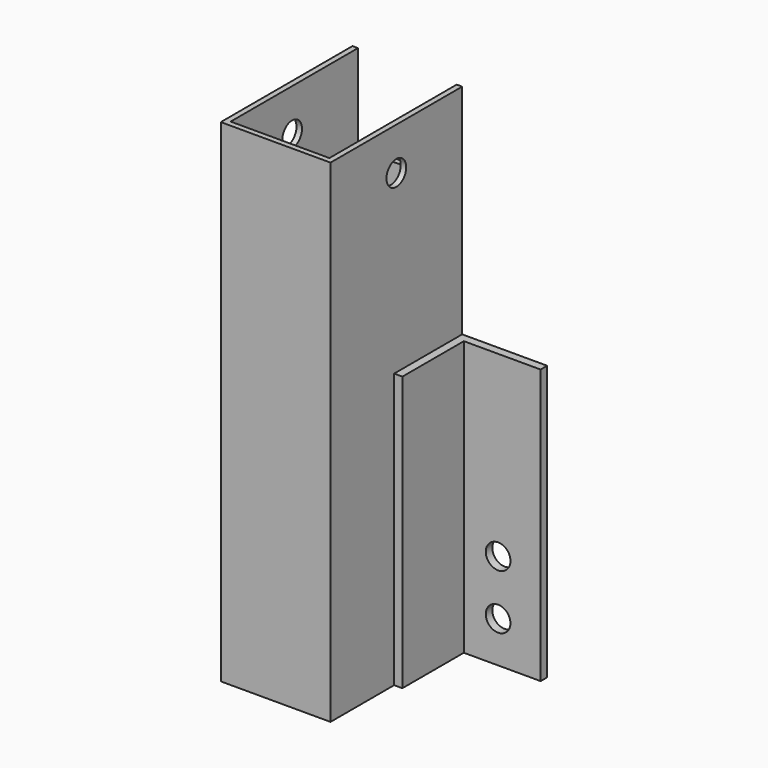
from build123d import *

# Parameters (mm, degrees)
F4_DEPTH  = 179.5
F3_W      = 31
F3_H      = 31
F5_DEPTH  = 100
F6_T      = -2
F7_T      = -3
F8_W      = 36
F8_H      = 31
F9_DEPTH  = 2
F10_R     = 4.5
F11_DEPTH = 3
F12_R     = 4.5
F13_DEPTH = 40.001


with BuildPart() as f4:
    # F3 (on Top) → F4 (new body)
    with BuildSketch(Plane.XY):
        Polygon((0, -31), (0, 0), (-40, 0), (-40, -60), (0, -60), align=None)
    extrude(amount=F4_DEPTH)

    # F6
    f6_openings = [f4.faces().sort_by_distance(p)[0] for p in [
        (-20, -30, 179.5),
        (-20, -30, 0),
    ]]
    offset(amount=F6_T, openings=f6_openings)

    # F8 (on face) → F9 (cut, through all)
    with BuildSketch(Plane(origin=(0, 0, 0), x_dir=(-1, 0, 0), z_dir=(0, 1, 0))):
        with Locations((20, 164)):
            Rectangle(F8_W, F8_H)
    extrude(amount=-F9_DEPTH, mode=Mode.SUBTRACT)

    # F12 (on Right) → F13 (cut, through all)
    with BuildSketch(Plane.YZ):
        with Locations((-30, 164)):
            Circle(F12_R)
    extrude(amount=-F13_DEPTH, mode=Mode.SUBTRACT)


with BuildPart() as f5:
    # F3 (on Top) → F5 (new body)
    with BuildSketch(Plane.XY):
        with Locations((15.5, -15.5)):
            Rectangle(F3_W, F3_H)
    extrude(amount=F5_DEPTH)

    # F7
    f7_openings = [f5.faces().sort_by_distance(p)[0] for p in [
        (15.5, -15.5, 100),
        (15.5, -31, 50),
        (31, -15.5, 50),
        (15.5, -15.5, 0),
    ]]
    offset(amount=F7_T, openings=f7_openings)

    # F10 (on Front) → F11 (cut, through all)
    with BuildSketch(Plane.XZ):
        with Locations((15.5, 35)):
            Circle(F10_R)
        with Locations((15.5, 15)):
            Circle(F10_R)
    extrude(amount=F11_DEPTH, mode=Mode.SUBTRACT)


solid = Compound([f4.part, f5.part])
